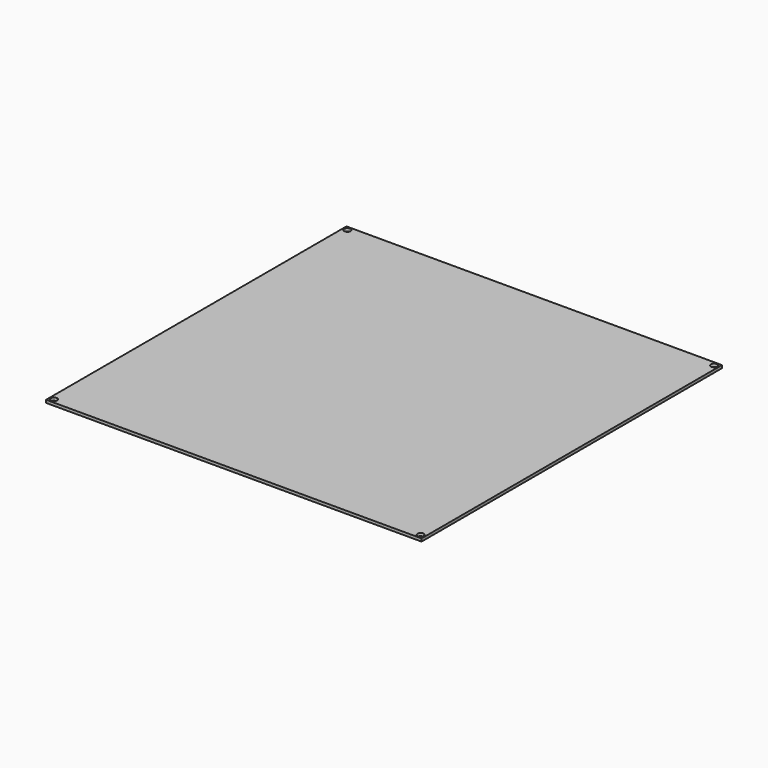
from build123d import *

# Parameters (mm, degrees)
SKETCH_W  = 214
SKETCH_H  = 214
SKETCH_R  = 1.8
PAD_DEPTH = 1.6


with BuildPart() as part:
    # Sketch → Pad (new body)
    with BuildSketch(Plane.XY):
        Rectangle(SKETCH_W, SKETCH_H)
        with Locations((-104.5, 104.5)):
            Circle(SKETCH_R, mode=Mode.SUBTRACT)
        with Locations((104.5, 104.5)):
            Circle(SKETCH_R, mode=Mode.SUBTRACT)
        with Locations((-104.5, -104.5)):
            Circle(SKETCH_R, mode=Mode.SUBTRACT)
        with Locations((104.5, -104.5)):
            Circle(SKETCH_R, mode=Mode.SUBTRACT)
    extrude(amount=PAD_DEPTH)


solid = part.part
